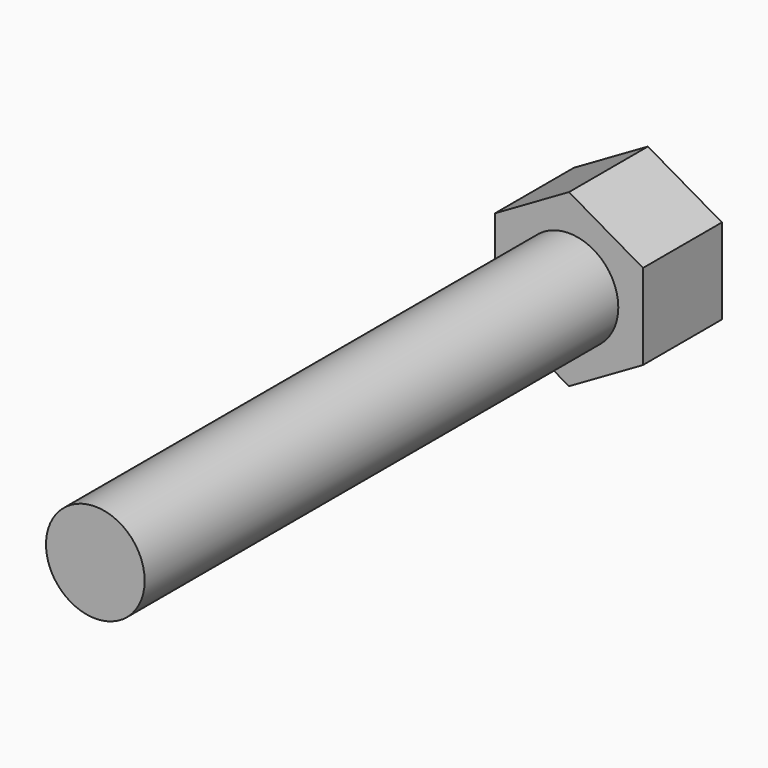
from build123d import *

# Parameters (mm, degrees)
F0_R     = 6.35
F1_DEPTH = 88.9
F3_DEPTH = 12.7


with BuildPart() as f1:
    # F0 (on Front) → F1 (new body)
    with BuildSketch(Plane.XZ):
        Circle(F0_R)
    extrude(amount=F1_DEPTH)

    # F2 (on Front) → F3 (join)
    with BuildSketch(Plane.XZ):
        Polygon((-9.525, 5.499261), (-9.525, -5.499261), (0, -10.998523), (9.525, -5.499261), (9.525, 5.499261), (0, 10.998523), align=None)
    extrude(amount=F3_DEPTH)


solid = f1.part
